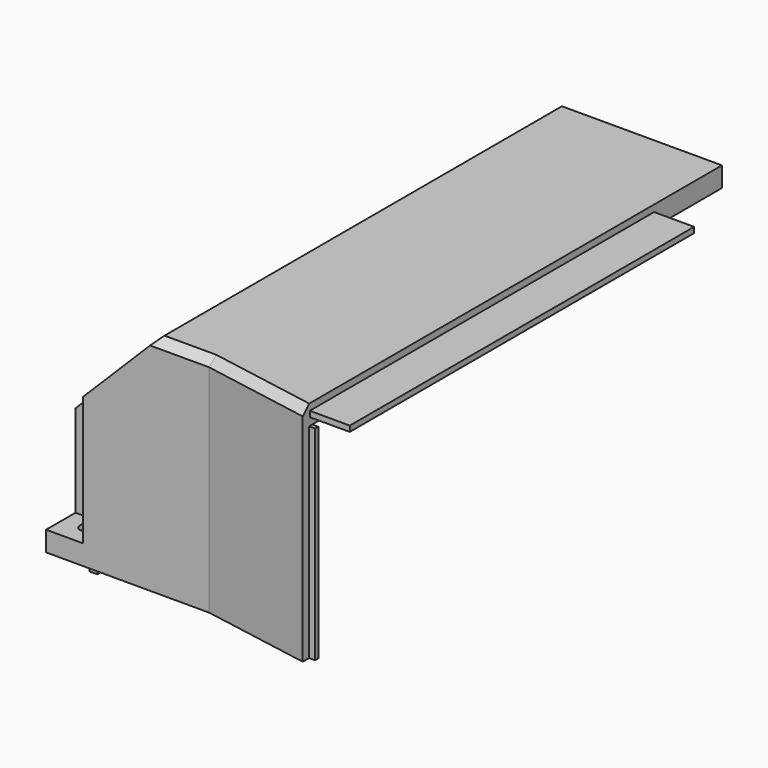
from build123d import *

# Parameters (mm, degrees)
SKETCH_1_W      = 40
SKETCH_1_H      = 116
PAD_DEPTH       = 5
PAD001_DEPTH    = 5
PAD002_DEPTH    = 126.2
SKETCH005_W     = 9.2
SKETCH005_H     = 9.2
POCKET_DEPTH    = 33.001
PAD004_DEPTH    = 2
PAD005_DEPTH    = 51
SKETCH006_W     = 2
SKETCH006_H     = 117
PAD006_DEPTH    = 23
PAD007_DEPTH    = 2
PAD008_DEPTH    = 9.2
SKETCH009_W     = 9.2
SKETCH009_H     = 5
PAD009_DEPTH    = 9.2
SKETCH010_R     = 1.6
POCKET001_DEPTH = 5
SKETCH011_W     = 107.6
SKETCH011_H     = 1.4
PAD010_DEPTH    = 10
SKETCH012_W     = 18.1
SKETCH012_H     = 2.08
POCKET002_DEPTH = 11
CHAMFER_SIZE    = 2
PAD011_DEPTH    = 51


with BuildPart() as part:
    # Sketch_1 → Pad (new body)
    with BuildSketch(Plane.XY):
        with Locations((-20, 58)):
            Rectangle(SKETCH_1_W, SKETCH_1_H)
    extrude(amount=PAD_DEPTH)

    # Sketch → Pad001 (join)
    with BuildSketch(Plane.XY):
        Polygon((0, 0), (-40, 0), (-40, -10.2), (-27.222153, -10.2), (0, -15), align=None)
    extrude(amount=PAD001_DEPTH)

    # Sketch001 (on Face6 of Pad001) → Pad002 (join)
    with BuildSketch(Plane.XZ.offset(10.2)):
        Polygon((-40, 5), (-68, -23), (-68, -28), (-66, -28), (-66, -26), (-40, 0), align=None)
    extrude(amount=-PAD002_DEPTH)

    # Sketch005 (on Face13 of Pad002) → Pocket (cut, through all)
    with BuildSketch(Plane.XY.offset(5)):
        with Locations((-63.4, -5.6)):
            Rectangle(SKETCH005_W, SKETCH005_H)
    extrude(amount=-POCKET_DEPTH, mode=Mode.SUBTRACT)

    # Sketch003 → Pad004 (join)
    with BuildSketch(Plane.XZ.offset(10.2)):
        Polygon((-58.8, -51), (-58.8, -18.8), (-40, 0), (-27.222153, 0), (-27.222153, -51), align=None)
    extrude(amount=-PAD004_DEPTH)

    # Sketch004 (on Face12 of Pad004) → Pad005 (join)
    with BuildSketch(Plane(origin=(0, 0, 0), x_dir=(1, 0, 0), z_dir=(0, 0, -1))):
        Polygon((-27.222153, 10.2), (0, 15), (0, 13), (-27.222153, 8.2), align=None)
    extrude(amount=PAD005_DEPTH)

    # Sketch006 (on Face8 of Pad005) → Pad006 (join)
    with BuildSketch(Plane(origin=(0, 0, -28), x_dir=(1, 0, 0), z_dir=(0, 0, -1))):
        with Locations((-67, -57.5)):
            Rectangle(SKETCH006_W, SKETCH006_H)
    extrude(amount=PAD006_DEPTH)

    # Sketch007 (on Face27 of Pad006) → Pad007 (join)
    with BuildSketch(Plane.XZ.offset(1)):
        Polygon((-58.8, -18.8), (-66, -26), (-66, -53), (-58.8, -53), align=None)
    extrude(amount=-PAD007_DEPTH)

    # Sketch008 (on Face22 of Pad007) → Pad008 (join)
    with BuildSketch(Plane(origin=(0, -8.2, 0), x_dir=(-1, 0, 0), z_dir=(0, 1, 0))):
        Polygon((56.8, -16.8), (56.8, -53), (58.8, -53), (58.8, -18.8), align=None)
    extrude(amount=PAD008_DEPTH)

    # Sketch009 (on Face32 of Pad008) → Pad009 (join)
    with BuildSketch(Plane.XZ.offset(1)):
        with Locations((-63.4, -48.5)):
            Rectangle(SKETCH009_W, SKETCH009_H)
    extrude(amount=PAD009_DEPTH)

    # Sketch010 (on Face43 of Pad009) → Pocket001 (cut)
    with BuildSketch(Plane.XY.offset(-46)):
        with Locations((-62.4, -4.6)):
            Circle(SKETCH010_R)
    extrude(amount=-POCKET001_DEPTH, mode=Mode.SUBTRACT)

    # Sketch011 (on Face3 of Pocket001) → Pad010 (join)
    with BuildSketch(Plane.YZ):
        with Locations((41, 2.64)):
            Rectangle(SKETCH011_W, SKETCH011_H)
    extrude(amount=PAD010_DEPTH)

    # Sketch012 (on Face1 of Pad010) → Pocket002 (cut)
    with BuildSketch(Plane(origin=(0, 116, 0), x_dir=(-1, 0, 0), z_dir=(0, 1, 0))):
        with Locations((20, 2.54)):
            Rectangle(SKETCH012_W, SKETCH012_H)
    extrude(amount=-POCKET002_DEPTH, mode=Mode.SUBTRACT)

    # Chamfer
    chamfer_edges = [part.edges().sort_by_distance(p)[0] for p in [
        (-13.611076, -12.6, 5),
        (-33.611076, -10.2, 5),
    ]]
    chamfer(chamfer_edges, length=CHAMFER_SIZE)

    # Sketch013 (on Face32 of Chamfer) → Pad011 (join)
    with BuildSketch(Plane(origin=(0, 0, 0), x_dir=(1, 0, 0), z_dir=(0, 0, -1))):
        Polygon((-5.671282, 12), (1.5, 12), (1.5, 13), (0, 13), align=None)
    extrude(amount=PAD011_DEPTH)


solid = part.part
